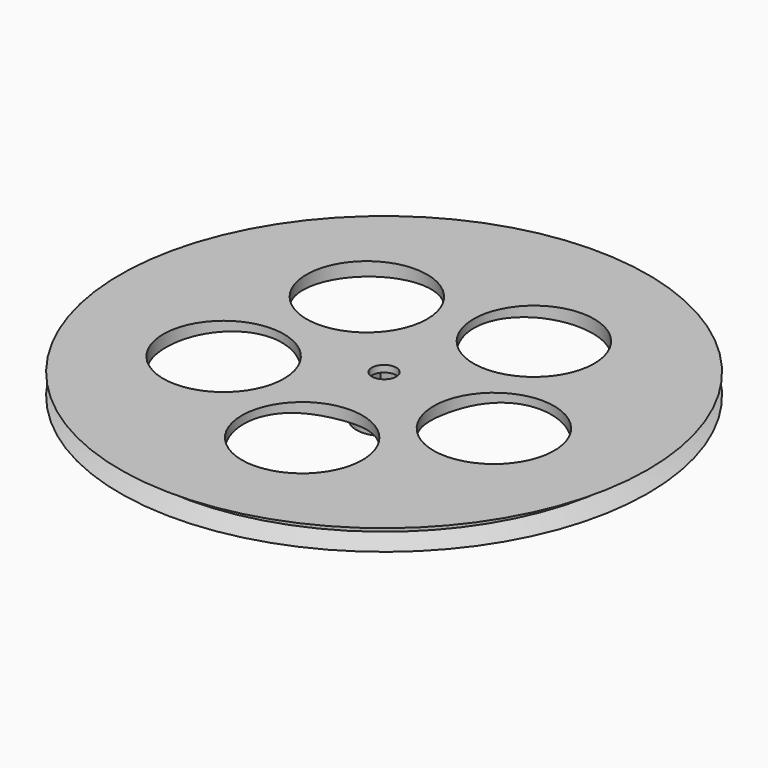
from build123d import *

# Parameters (mm, degrees)
BOX_W              = 13.4
BOX_H              = 13.4
BOX_DEPTH          = 14
SKETCH001_R        = 24
POCKET_DEPTH       = 6
POLARPATTERN_COUNT = 5


with BuildPart() as cube:
    # Box → Box (new body)
    with BuildSketch(Plane(origin=(-6.7, -6.7, 10), x_dir=(1, 0, 0), z_dir=(0, 0, 1))):
        with Locations((6.7, 6.7)):
            Rectangle(BOX_W, BOX_H)
    extrude(amount=BOX_DEPTH)


with BuildPart() as body:
    # Sketch → Revolve (revolve)
    with BuildSketch(Plane.XZ):
        with BuildLine():
            Line((91.081299, 18.37), (105, 18.37))
            Line((105, 18.37), (97.032315, 21.27))
            Line((97.032315, 21.27), (97.032315, 23.77))
            Line((97.032315, 23.77), (105, 26.67))
            Line((105, 26.67), (4.86, 26.67))
            Line((4.86, 26.67), (4.86, 10.010664))
            Line((4.86, 10.010664), (11.05, 10.010664))
            Line((11.05, 10.010664), (11.05, 18.37))
            add(Edge.make_bspline(
                [(91.081299, 18.37), (58.452015, 25.146616), (31.574902, 25.049244), (11.05, 18.37)],
                knots=[0, 0, 0, 0, 1, 1, 1, 1], degree=3))
        make_face()
    revolve(axis=Axis((0, 0, 0), (0, 0, 1)))

    # Cut: cut Cube
    add(cube.part, mode=Mode.SUBTRACT)

    # Sketch001 (on Face12 of BaseFeature) → Pocket (cut)
    with BuildSketch(Plane.XY.offset(26.67)):
        with Locations((-35.831062, 36.219181)):
            Circle(SKETCH001_R)
    pocket = extrude(amount=-POCKET_DEPTH, mode=Mode.SUBTRACT)

    # PolarPattern: Pocket ×5 about axis
    polarpattern_axis = Axis((0, 0, 26.67), (0, 0, 1))
    for i in range(1, POLARPATTERN_COUNT):
        add(pocket.rotate(polarpattern_axis, i * 360 / POLARPATTERN_COUNT), mode=Mode.SUBTRACT)


solid = body.part
